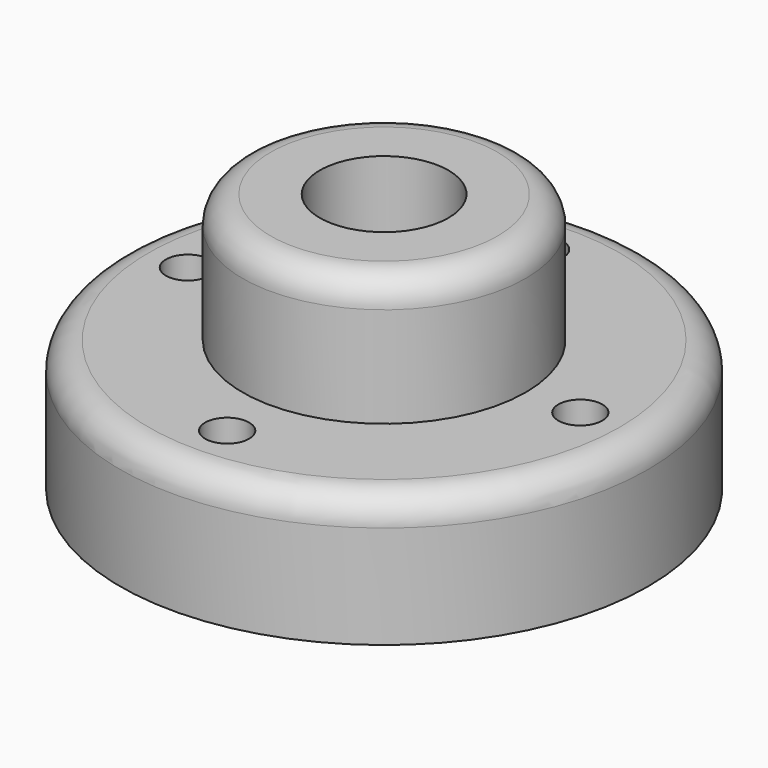
from build123d import *

# Parameters (mm, degrees)
F0_R      = 30
F1_DEPTH  = 14.9
F3_R      = 16.1
F4_DEPTH  = 14.6
F5_R      = 2.5
F6_DEPTH  = 25
F7_R      = 3.2
F9_R      = 7.315
F10_DEPTH = 50


with BuildPart() as f1:
    # F0 (on Top) → F1 (new body)
    with BuildSketch(Plane.XY):
        Circle(F0_R)
    extrude(amount=F1_DEPTH)

    # F3 (on offset) → F4 (join)
    with BuildSketch(Plane.XY.offset(14.9)):
        Circle(F3_R)
    extrude(amount=F4_DEPTH)

    # F5 (on offset) → F6 (cut)
    with BuildSketch(Plane.XY.offset(14.9)):
        with Locations((-22.3, 0)):
            Circle(F5_R)
        with Locations((0, 22.3)):
            Circle(F5_R)
        with Locations((22.3, 0)):
            Circle(F5_R)
        with Locations((0, -22.3)):
            Circle(F5_R)
    extrude(amount=-F6_DEPTH, mode=Mode.SUBTRACT)

    # F7
    f7_edges = [f1.edges().sort_by_distance(p)[0] for p in [
        (-30, 0, 14.9),
        (-16.1, 0, 29.5),
    ]]
    fillet(f7_edges, radius=F7_R)

    # F9 (on offset) → F10 (cut)
    with BuildSketch(Plane.XY.offset(29.5)):
        Circle(F9_R)
    extrude(amount=-F10_DEPTH, mode=Mode.SUBTRACT)


solid = f1.part
